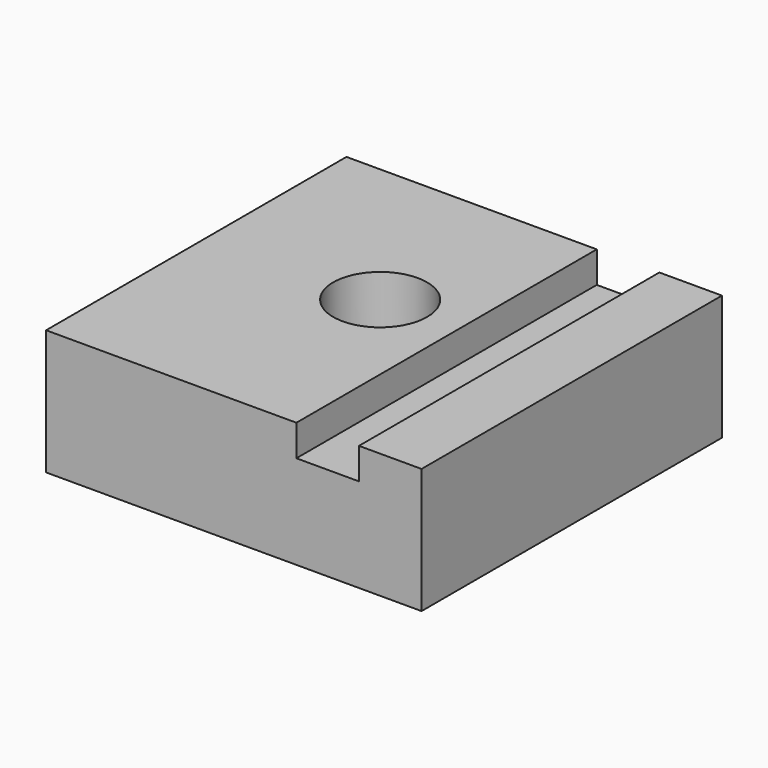
from build123d import *

# Parameters (mm, degrees)
F1_DEPTH = 76.2
F2_R     = 9.525
F3_DEPTH = 76.2


with BuildPart() as f1:
    # F0 (on Front) → F1 (new body)
    with BuildSketch(Plane.XZ):
        Polygon((-50.8, 0), (25.4, 0), (25.4, 25.4), (12.7, 25.4), (12.7, 19.05), (0, 19.05), (0, 25.4), (-50.8, 25.4), align=None)
    extrude(amount=F1_DEPTH)

    # F2 (on Top) → F3 (cut)
    with BuildSketch(Plane.XY):
        with Locations((-16.019618, -34.925)):
            Circle(F2_R)
    extrude(amount=F3_DEPTH, mode=Mode.SUBTRACT)


solid = f1.part
